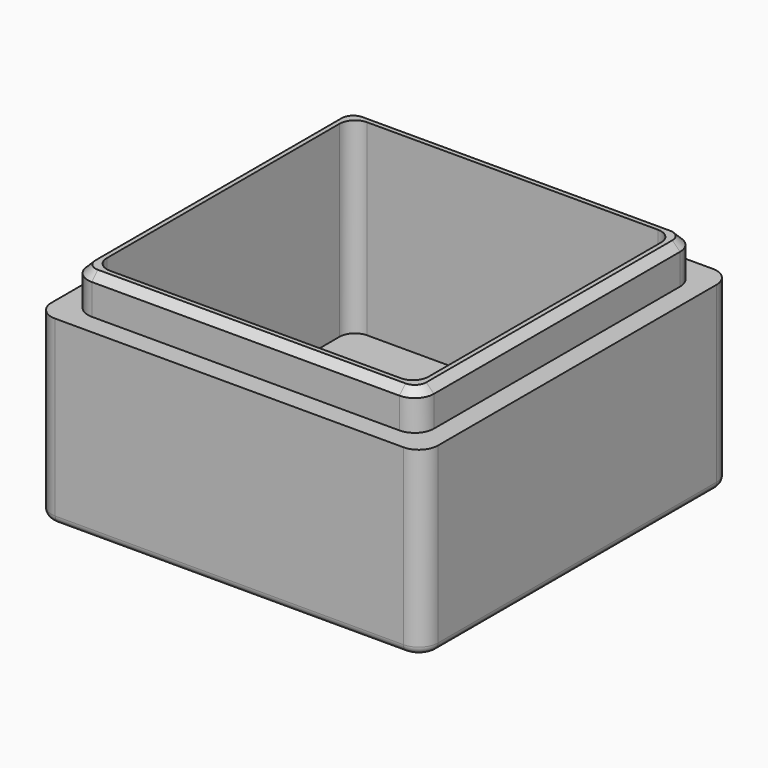
from build123d import *

# Parameters (mm, degrees)
F0_W          = 50.5
F0_H          = 50.5
F1_DEPTH      = 23.7
F2_W          = 45.2
F2_H          = 45.2
F3_DEPTH      = 5
F4_W          = 42
F4_H          = 42
F5_DEPTH      = 5
F5_DEPTH_BACK = 19.5
F6_R          = 2.5
F7_R          = 2
F8_SIZE       = 1
F9_R          = 1


with BuildPart() as f1:
    # F0 (on Top) → F1 (new body)
    with BuildSketch(Plane.XY):
        Rectangle(F0_W, F0_H)
    extrude(amount=F1_DEPTH)

    # F2 (on face) → F3 (join)
    with BuildSketch(Plane.XY.offset(23.7)):
        Rectangle(F2_W, F2_H)
    extrude(amount=F3_DEPTH)

    # F4 (on face) → F5 (cut, two sides)
    with BuildSketch(Plane.XY.offset(23.7)) as f5_sk:
        Rectangle(F4_W, F4_H)
    extrude(amount=F5_DEPTH, mode=Mode.SUBTRACT)
    extrude(f5_sk.sketch, amount=-F5_DEPTH_BACK, mode=Mode.SUBTRACT)

    # F6
    f6_edges = [f1.edges().sort_by_distance(p)[0] for p in [
        (-25.25, 25.25, 11.85),
        (-25.25, -25.25, 11.85),
        (25.25, -25.25, 11.85),
        (25.25, 25.25, 11.85),
        (-22.6, 22.6, 26.2),
        (-22.6, -22.6, 26.2),
        (22.6, -22.6, 26.2),
        (22.6, 22.6, 26.2),
    ]]
    fillet(f6_edges, radius=F6_R)

    # F7
    f7_edges = [f1.edges().sort_by_distance(p)[0] for p in [
        (-21, 21, 16.45),
        (21, 21, 16.45),
        (21, -21, 16.45),
        (-21, -21, 16.45),
    ]]
    fillet(f7_edges, radius=F7_R)

    # F8
    f8_edges = [f1.edges().sort_by_distance(p)[0] for p in [
        (-22.6, 0, 28.7),
    ]]
    chamfer(f8_edges, length=F8_SIZE)

    # F9
    f9_edges = [f1.edges().sort_by_distance(p)[0] for p in [
        (0, 25.25, 0),
    ]]
    fillet(f9_edges, radius=F9_R)


solid = f1.part
